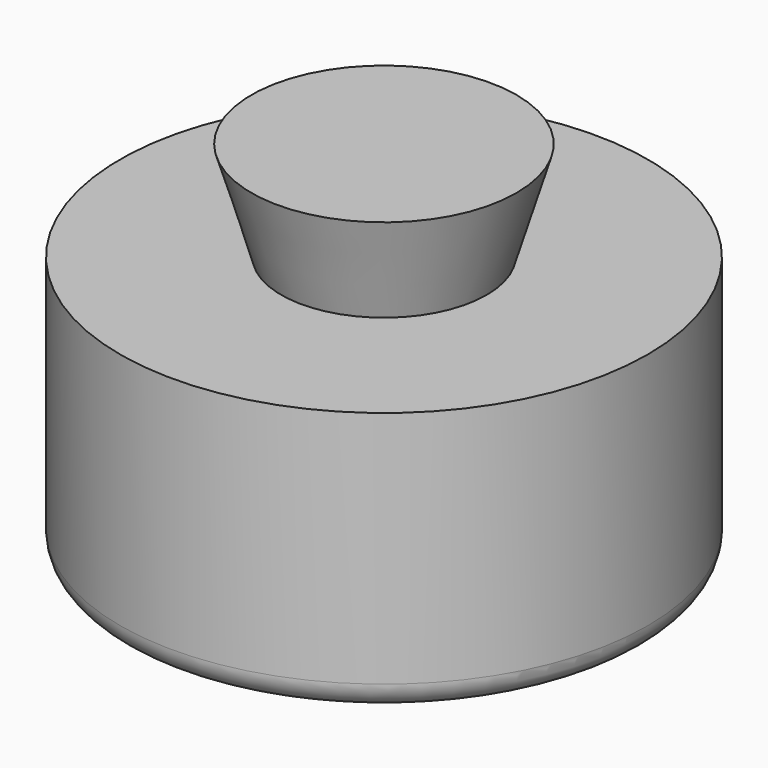
from build123d import *

# Parameters (mm, degrees)
CYLINDER002_R     = 19.9
CYLINDER002_DEPTH = 20
FILLET_R          = 2


with BuildPart() as fillet_body:
    # Cylinder002 → Cylinder002 (new body)
    with BuildSketch(Plane.XY.offset(2.5)):
        Circle(CYLINDER002_R)
    extrude(amount=CYLINDER002_DEPTH)

    # Fillet
    fillet_edges = [fillet_body.edges().sort_by_distance(p)[0] for p in [
        (-19.9, 0, 2.5),
    ]]
    fillet(fillet_edges, radius=FILLET_R)


with BuildPart() as fusion:
    # Cone → Cone (revolve)
    with BuildSketch(Plane(origin=(0, 0, 20), x_dir=(1, 0, 0), z_dir=(0, -1, 0))):
        Polygon((0, 0), (7, 0), (10, 10), (0, 10), align=None)
    revolve(axis=Axis((0, 0, 20), (0, 0, 1)))

    # Fusion: union Fillet body
    add(fillet_body.part)


solid = fusion.part
